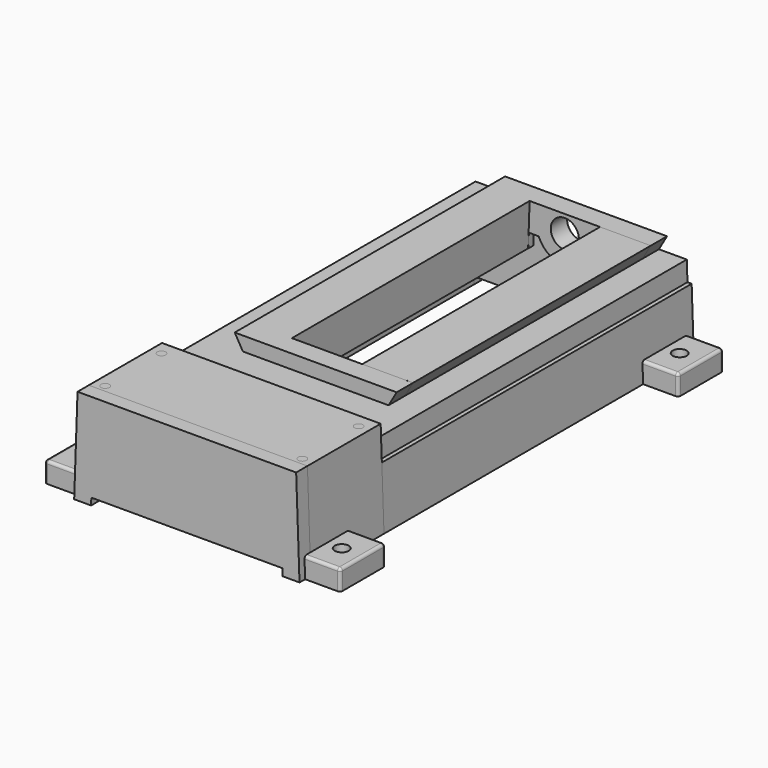
from build123d import *

# Parameters (mm, degrees)
SKETCH_R     = 3
SKETCH_R_2   = 10
PAD_DEPTH    = 10
SKETCH002_R  = 10
PAD001_DEPTH = 4.5
PAD002_DEPTH = 211
PAD003_DEPTH = 4.5
PAD004_DEPTH = 10
PAD005_DEPTH = 35
PAD006_DEPTH = 10
PAD007_DEPTH = 55
PAD008_DEPTH = 10
SKETCH010_R  = 3
POCKET_DEPTH = 10
SKETCH011_W  = 26
SKETCH011_H  = 40
SKETCH011_R  = 5
PAD009_DEPTH = 14.5
FILLET_R     = 2
FILLET001_R  = 2
FILLET002_R  = 2
FILLET003_R  = 2


with BuildPart() as pad007:
    # Sketch → Pad (new body)
    with BuildSketch(Plane.XZ):
        Polygon((-75, 58), (-48.226497, 58), (-54, 68), (61, 68), (55.226497, 58), (75, 58), (75.488891, 44), (78.463486, 44), (80, 0), (68, 0), (67.825396, 5), (-67.825396, 5), (-68, 0), (-80, 0), (-78.463486, 44), (-75.488891, 44), align=None)
        with Locations((25, 55.5)):
            Circle(SKETCH_R, mode=Mode.SUBTRACT)
        with Locations((-25, 55.5)):
            Circle(SKETCH_R, mode=Mode.SUBTRACT)
        with Locations((0, 55.5)):
            Circle(SKETCH_R_2, mode=Mode.SUBTRACT)
    extrude(amount=PAD_DEPTH)

    # Sketch002 → Pad001 (new body)
    with BuildSketch(Plane.XZ.offset(10)):
        with BuildLine():
            Line((-75, 58), (-48.226497, 58))
            Line((-48.226497, 58), (-54, 68))
            Line((-54, 68), (61, 68))
            Line((61, 68), (55.226497, 58))
            Line((55.226497, 58), (75, 58))
            Line((75.488891, 44), (75, 58))
            Line((78.463486, 44), (75.488891, 44))
            Line((80, 0), (78.463486, 44))
            Line((80, 0), (68, 0))
            Line((68, 0), (66.323803, 48))
            Line((36.248415, 48), (66.323803, 48))
            Line((35.899208, 38), (36.248415, 48))
            Line((25.899208, 38), (35.899208, 38))
            Line((25.55, 48), (25.899208, 38))
            Line((18.540496, 48), (25.55, 48))
            ThreePointArc((-18.540496, 48), (0, 35.5), (18.540496, 48))
            Line((-25.55, 48), (-18.540496, 48))
            Line((-25.899208, 38), (-25.55, 48))
            Line((-35.899208, 38), (-25.899208, 38))
            Line((-36.248415, 48), (-35.899208, 38))
            Line((-66.323803, 48), (-36.248415, 48))
            Line((-66.323803, 48), (-68, 0))
            Line((-68, 0), (-80, 0))
            Line((-80, 0), (-78.463486, 44))
            Line((-78.463486, 44), (-75.488891, 44))
            Line((-75.488891, 44), (-75, 58))
        make_face()
        with Locations((0, 55.5)):
            Circle(SKETCH002_R, mode=Mode.SUBTRACT)
    extrude(amount=PAD001_DEPTH)

    # Sketch001 → Pad002 (new body)
    with BuildSketch(Plane.XZ.offset(14.5)):
        Polygon((-75, 58), (-48.226497, 58), (-54, 68), (-25, 68), (-26.047623, 38), (-36.047623, 38), (-36.396831, 48), (-66.323803, 48), (-68, 0), (-80, 0), (-78.463486, 44), (-75.488891, 44), align=None)
        Polygon((61, 68.005043), (55.223586, 58), (75, 58), (75.488891, 44), (78.463486, 44), (80, 0), (68, 0), (66.323803, 48), (36.396655, 48), (36.047623, 38.005043), (26.047623, 38.005043), (25, 68.005043), align=None)
    extrude(amount=PAD002_DEPTH)

    # Sketch009 → Pad003 (new body)
    with BuildSketch(Plane.XZ.offset(225.5)):
        Polygon((-75, 58), (-48.226497, 58), (-54, 68), (61, 68), (55.226497, 58), (75, 58), (75.488891, 44), (78.463486, 44), (80, 0), (68, 0), (66.323803, 48), (36.449208, 48), (36.1, 38), (26.1, 38), (25.401585, 58), (-25.4, 58), (-26.098415, 38), (-36.098415, 38), (-36.447623, 48), (-66.323803, 48), (-68, 0), (-80, 0), (-78.463486, 44), (-75.488891, 44), align=None)
    extrude(amount=PAD003_DEPTH)

    # Sketch003 → Pad004 (new body)
    with BuildSketch(Plane.XZ.offset(230)):
        Polygon((-75, 58), (-48.226497, 58), (-54, 68), (61, 68), (55.226497, 58), (75, 58), (75.488891, 44), (78.463486, 44), (80, 0), (68, 0), (67.825396, 5), (-67.825396, 5), (-68, 0), (-80, 0), (-78.463486, 44), (-75.488891, 44), align=None)
    extrude(amount=PAD004_DEPTH)

    # Sketch004 → Pad005 (new body)
    with BuildSketch(Plane.XZ.offset(240)):
        Polygon((-75, 58), (0, 58), (75, 58), (75.488891, 44), (78.463486, 44), (80, 0), (68, 0), (66.323803, 48), (-66.323803, 48), (-68, 0), (-80, 0), (-78.463486, 44), (-75.488891, 44), align=None)
    extrude(amount=PAD005_DEPTH)

    # Sketch006 → Pad006 (new body)
    with BuildSketch(Plane.XZ.offset(275)):
        Polygon((-77.625388, 68), (77.625388, 68), (80, 0), (68, 0), (67.825396, 5), (-67.825396, 5), (-68, 0), (-80, 0), align=None)
    extrude(amount=PAD006_DEPTH)

    # Sketch005 → Pad007 (new body)
    with BuildSketch(Plane.XZ.offset(285)):
        Polygon((-77.625388, 68), (77.625388, 68), (80, 0), (68, 0), (66.323803, 48), (-66.323803, 48), (-68, 0), (-80, 0), align=None)
    extrude(amount=PAD007_DEPTH)


with BuildPart() as pad008:
    # Pad008 base: copy of Pad007
    add(pad007.part)

    # Sketch007 → Pad008 (new body)
    with BuildSketch(Plane.XZ.offset(340)):
        Polygon((-77.625388, 68), (77.625388, 68), (80, 0), (68, 0), (67.825396, 5), (-67.825396, 5), (-68, 0), (-80, 0), align=None)
    extrude(amount=PAD008_DEPTH)


with BuildPart() as pocket:
    # Pocket base: copy of Pad007
    add(pad007.part)

    # Sketch010 → Pocket (cut)
    with BuildSketch(Plane(origin=(0, 0, 68), x_dir=(-1, 0, 0), z_dir=(0, 0, 1))):
        with Locations((70, 285)):
            Circle(SKETCH010_R)
        with Locations((-70, 285)):
            Circle(SKETCH010_R)
        with Locations((70, 335)):
            Circle(SKETCH010_R)
        with Locations((-70, 335)):
            Circle(SKETCH010_R)
    extrude(amount=-POCKET_DEPTH, mode=Mode.SUBTRACT)


with BuildPart() as fillet003:
    # Sketch011 → Pad009 (new body)
    with BuildSketch(Plane.XY):
        with Locations((-92, -25)):
            Rectangle(SKETCH011_W, SKETCH011_H)
        with Locations((-90, -25)):
            Circle(SKETCH011_R, mode=Mode.SUBTRACT)
        with Locations((92, -25)):
            Rectangle(SKETCH011_W, SKETCH011_H)
        with Locations((90, -25)):
            Circle(SKETCH011_R, mode=Mode.SUBTRACT)
        with Locations((-92, -325)):
            Rectangle(SKETCH011_W, SKETCH011_H)
        with Locations((-90, -325)):
            Circle(SKETCH011_R, mode=Mode.SUBTRACT)
        with Locations((92, -325)):
            Rectangle(SKETCH011_W, SKETCH011_H)
        with Locations((90, -325)):
            Circle(SKETCH011_R, mode=Mode.SUBTRACT)
    extrude(amount=PAD009_DEPTH)

    # Fillet
    fillet_edges = [fillet003.edges().sort_by_distance(p)[0] for p in [
        (-105, -5, 7.25),
        (-92, -5, 14.5),
        (-105, -25, 14.5),
        (-105, -45, 7.25),
        (-92, -45, 14.5),
    ]]
    fillet(fillet_edges, radius=FILLET_R)

    # Fillet001
    fillet001_edges = [fillet003.edges().sort_by_distance(p)[0] for p in [
        (-105, -345, 7.25),
        (-92, -345, 14.5),
        (-105, -325, 14.5),
        (-105, -305, 7.25),
        (-92, -305, 14.5),
    ]]
    fillet(fillet001_edges, radius=FILLET001_R)

    # Fillet002
    fillet002_edges = [fillet003.edges().sort_by_distance(p)[0] for p in [
        (105, -5, 7.25),
        (92, -5, 14.5),
        (105, -25, 14.5),
        (92, -45, 14.5),
        (105, -45, 7.25),
    ]]
    fillet(fillet002_edges, radius=FILLET002_R)

    # Fillet003
    fillet003_edges = [fillet003.edges().sort_by_distance(p)[0] for p in [
        (105, -305, 7.25),
        (92, -305, 14.5),
        (105, -325, 14.5),
        (92, -345, 14.5),
        (105, -345, 7.25),
    ]]
    fillet(fillet003_edges, radius=FILLET003_R)


solid = Compound([pad008.part, pocket.part, fillet003.part])
